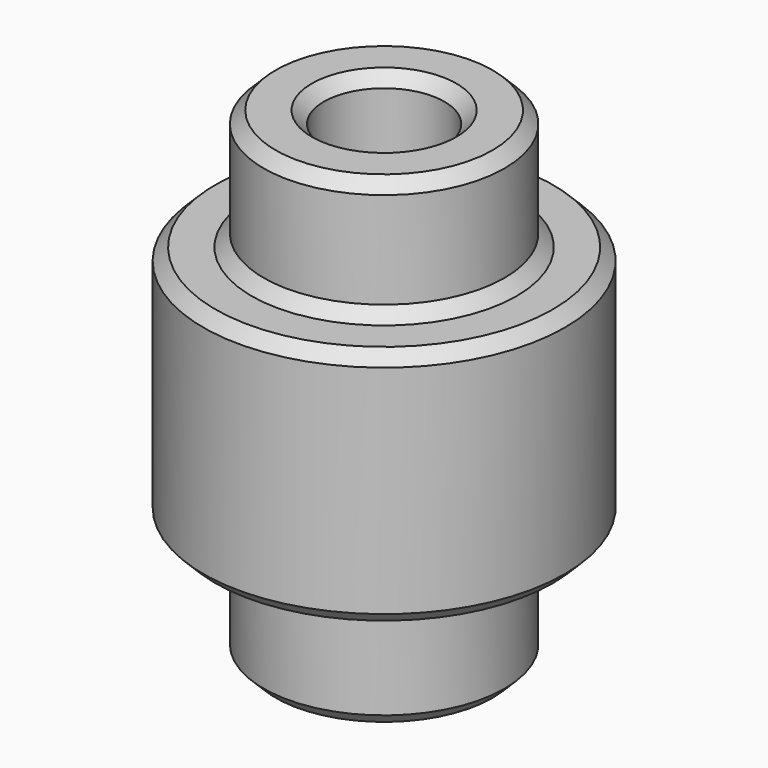
from build123d import *

# Parameters (mm, degrees)
F0_R          = 15
F1_DEPTH      = 10
F1_DEPTH_BACK = 10
F2_R          = 10
F3_DEPTH      = 10
F4_R          = 10
F5_DEPTH      = 10
F7_D          = 10
F8_SIZE       = 1


with BuildPart() as f1:
    # F0 (on Top) → F1 (new body, two sides)
    with BuildSketch(Plane.XY) as f1_sk:
        Circle(F0_R)
    extrude(amount=F1_DEPTH)
    extrude(f1_sk.sketch, amount=-F1_DEPTH_BACK)

    # F2 (on face) → F3 (join)
    with BuildSketch(Plane.XY.offset(10)):
        Circle(F2_R)
    extrude(amount=F3_DEPTH)

    # F4 (on face) → F5 (join)
    with BuildSketch(Plane(origin=(0, 0, -10), x_dir=(1, 0, 0), z_dir=(0, 0, -1))):
        Circle(F4_R)
    extrude(amount=F5_DEPTH)

    # F7 (through all)
    with Locations(Plane.XY.offset(20)):
        with Locations((0, 0)):
            Hole(F7_D / 2)

    # F8
    f8_edges = [f1.edges().sort_by_distance(p)[0] for p in [
        (-10, 0, 20),
        (-5, 0, 20),
        (-15, 0, 10),
        (-10, 0, 10),
        (-15, 0, -10),
        (-10, 0, -10),
        (-10, 0, -20),
        (-5, 0, -20),
    ]]
    chamfer(f8_edges, length=F8_SIZE)


solid = f1.part
